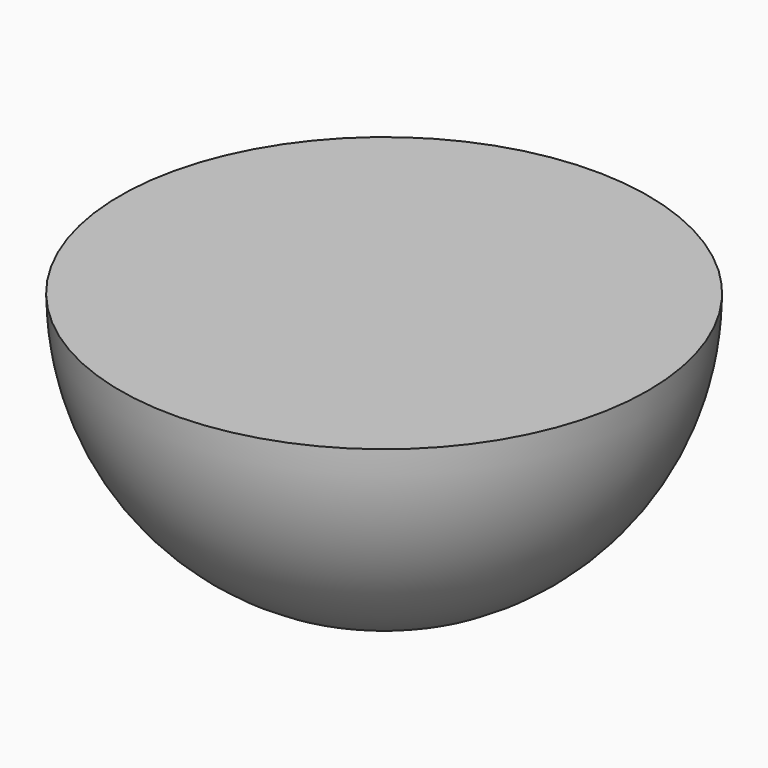
from build123d import *

# Parameters (mm, degrees)
BOX002_W     = 10
BOX002_H     = 10
BOX002_DEPTH = 10


with BuildPart() as cubo002:
    # Box002 → Box002 (new body)
    with BuildSketch(Plane(origin=(-5, -5, 0), x_dir=(1, 0, 0), z_dir=(0, 0, 1))):
        with Locations((5, 5)):
            Rectangle(BOX002_W, BOX002_H)
    extrude(amount=BOX002_DEPTH)


with BuildPart() as cut:
    # Sphere → Sphere (revolve)
    with BuildSketch(Plane.XZ):
        with BuildLine():
            ThreePointArc((0, -5), (5, 0), (0, 5))
            Line((0, 5), (0, -5))
        make_face()
    revolve(axis=Axis((0, 0, 0), (0, 0, 1)))

    # Cut: cut Cubo002
    add(cubo002.part, mode=Mode.SUBTRACT)


with BuildPart() as cut_1:
    # Cut placement: moved
    add(cut.part.moved(Location((15, -35, -68))))


solid = cut_1.part
